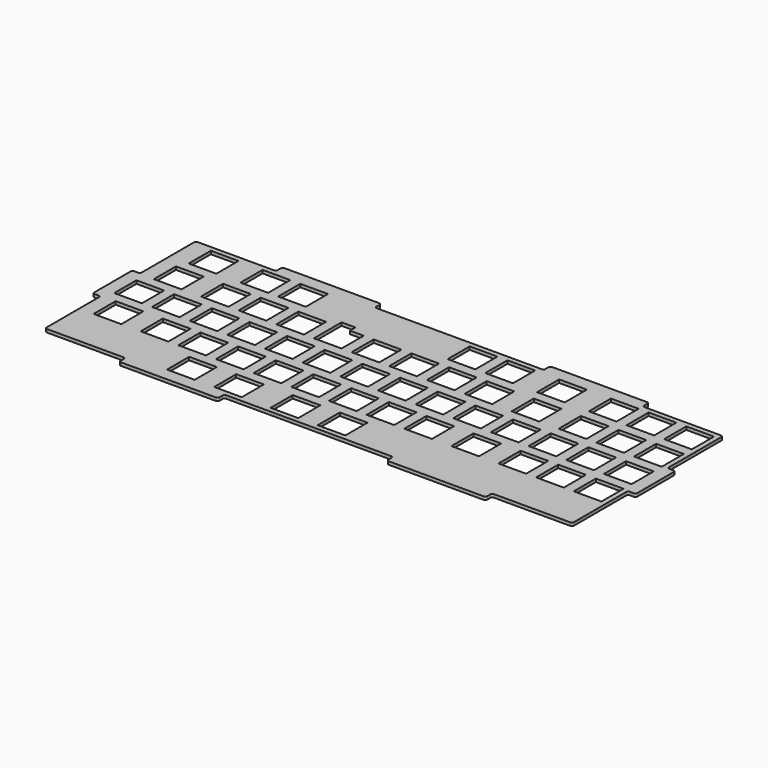
from build123d import *

# Parameters (mm, degrees)
SKETCH002_W     = 14
SKETCH002_H     = 14
PAD001_DEPTH    = 1.6
SKETCH003_W     = 14
SKETCH003_H     = 14
POCKET001_DEPTH = 5
SKETCH004_W     = 14
SKETCH004_H     = 14
POCKET002_DEPTH = 5
SKETCH005_W     = 14
SKETCH005_H     = 14
POCKET003_DEPTH = 5
SKETCH006_W     = 14
SKETCH006_H     = 14
POCKET004_DEPTH = 5
FILLET_R        = 1
SKETCH040_W     = 7
SKETCH040_H     = 3.5
POCKET021_DEPTH = 5


with BuildPart() as part:
    # Sketch002 → Pad001 (new body)
    with BuildSketch(Plane.XY):
        Polygon((-133.35, 47.625), (-92.725, 47.625), (-92.725, 51.625), (-42.725, 51.625), (-42.725, 47.625), (42.725, 47.625), (42.725, 51.625), (92.725, 51.625), (92.725, 47.625), (133.35, 47.625), (133.35, 12.5), (137.35, 12.5), (137.35, -12.5), (133.35, -12.5), (133.35, -47.625), (92.725, -47.625), (92.725, -51.625), (42.725, -51.625), (42.725, -47.625), (-42.725, -47.625), (-42.725, -51.625), (-92.725, -51.625), (-92.725, -47.625), (-133.35, -47.625), (-133.35, -12.5), (-137.35, -12.5), (-137.35, 12.5), (-133.35, 12.5), align=None)
        with Locations((-71.4375, 38.1)):
            Rectangle(SKETCH002_W, SKETCH002_H, mode=Mode.SUBTRACT)
        with Locations((14.2875, 38.1)):
            Rectangle(SKETCH002_W, SKETCH002_H, mode=Mode.SUBTRACT)
        with Locations((33.3375, 38.1)):
            Rectangle(SKETCH002_W, SKETCH002_H, mode=Mode.SUBTRACT)
        with Locations((-90.4875, 38.1)):
            Rectangle(SKETCH002_W, SKETCH002_H, mode=Mode.SUBTRACT)
        with Locations((-116.68125, 38.1)):
            Rectangle(SKETCH002_W, SKETCH002_H, mode=Mode.SUBTRACT)
        with Locations((59.53125, 38.1)):
            Rectangle(SKETCH002_W, SKETCH002_H, mode=Mode.SUBTRACT)
        with Locations((85.725, 38.1)):
            Rectangle(SKETCH002_W, SKETCH002_H, mode=Mode.SUBTRACT)
        Polygon((97.775, 45.1), (111.775, 45.1), (111.775, 31.1), (97.77505, 31.1), align=None, mode=Mode.SUBTRACT)
        with Locations((123.825, 38.1)):
            Rectangle(SKETCH002_W, SKETCH002_H, mode=Mode.SUBTRACT)
    extrude(amount=-PAD001_DEPTH)

    # Sketch003 (on Face65 of Pad001) → Pocket001 (cut)
    with BuildSketch(Plane.XY):
        with Locations((-119.0625, 19.05)):
            Rectangle(SKETCH003_W, SKETCH003_H)
        with Locations((-95.25, 19.05)):
            Rectangle(SKETCH003_W, SKETCH003_H)
        with Locations((-57.15, 19.05)):
            Rectangle(SKETCH003_W, SKETCH003_H)
        with Locations((85.725, 19.05)):
            Rectangle(SKETCH003_W, SKETCH003_H)
        with Locations((-19.05, 19.05)):
            Rectangle(SKETCH003_W, SKETCH003_H)
        with Locations((38.1, 19.05)):
            Rectangle(SKETCH003_W, SKETCH003_H)
        with Locations((-76.2, 19.05)):
            Rectangle(SKETCH003_W, SKETCH003_H)
        with Locations((-38.1, 19.05)):
            Rectangle(SKETCH003_W, SKETCH003_H)
        with Locations((19.05, 19.05)):
            Rectangle(SKETCH003_W, SKETCH003_H)
        with Locations((104.775, 19.05)):
            Rectangle(SKETCH003_W, SKETCH003_H)
        with Locations((0, 19.05)):
            Rectangle(SKETCH003_W, SKETCH003_H)
        with Locations((61.9125, 19.05)):
            Rectangle(SKETCH003_W, SKETCH003_H)
        with Locations((123.825, 19.05)):
            Rectangle(SKETCH003_W, SKETCH003_H)
    extrude(amount=-POCKET001_DEPTH, mode=Mode.SUBTRACT)

    # Sketch004 (on Face4 of Pocket001) → Pocket002 (cut)
    with BuildSketch(Plane.XY):
        with Locations((-123.825, 0)):
            Rectangle(SKETCH004_W, SKETCH004_H)
        with Locations((-104.775, 0)):
            Rectangle(SKETCH004_W, SKETCH004_H)
        with Locations((-85.725, 0)):
            Rectangle(SKETCH004_W, SKETCH004_H)
        with Locations((-66.675, 0)):
            Rectangle(SKETCH004_W, SKETCH004_H)
        with Locations((-47.625, 0)):
            Rectangle(SKETCH004_W, SKETCH004_H)
        with Locations((-9.525, 0)):
            Rectangle(SKETCH004_W, SKETCH004_H)
        with Locations((9.525, 0)):
            Rectangle(SKETCH004_W, SKETCH004_H)
        with Locations((28.575, 0)):
            Rectangle(SKETCH004_W, SKETCH004_H)
        with Locations((47.625, 0)):
            Rectangle(SKETCH004_W, SKETCH004_H)
        with Locations((123.825, 0)):
            Rectangle(SKETCH004_W, SKETCH004_H)
        with Locations((66.675, 0)):
            Rectangle(SKETCH004_W, SKETCH004_H)
        with Locations((85.725, 0)):
            Rectangle(SKETCH004_W, SKETCH004_H)
        with Locations((104.775, 0)):
            Rectangle(SKETCH004_W, SKETCH004_H)
        with Locations((-28.575, 0)):
            Rectangle(SKETCH004_W, SKETCH004_H)
    extrude(amount=-POCKET002_DEPTH, mode=Mode.SUBTRACT)

    # Sketch005 (on Face4 of Pocket002) → Pocket003 (cut)
    with BuildSketch(Plane.XY):
        with Locations((-119.0625, -19.05)):
            Rectangle(SKETCH005_W, SKETCH005_H)
        with Locations((-95.25, -19.05)):
            Rectangle(SKETCH005_W, SKETCH005_H)
        with Locations((-57.15, -19.05)):
            Rectangle(SKETCH005_W, SKETCH005_H)
        with Locations((85.725, -19.05)):
            Rectangle(SKETCH005_W, SKETCH005_H)
        with Locations((-19.05, -19.05)):
            Rectangle(SKETCH005_W, SKETCH005_H)
        with Locations((38.1, -19.05)):
            Rectangle(SKETCH005_W, SKETCH005_H)
        with Locations((-76.2, -19.05)):
            Rectangle(SKETCH005_W, SKETCH005_H)
        with Locations((-38.1, -19.05)):
            Rectangle(SKETCH005_W, SKETCH005_H)
        with Locations((19.05, -19.05)):
            Rectangle(SKETCH005_W, SKETCH005_H)
        with Locations((123.825, -19.05)):
            Rectangle(SKETCH005_W, SKETCH005_H)
        with Locations((104.775, -19.05)):
            Rectangle(SKETCH005_W, SKETCH005_H)
        with Locations((0, -19.05)):
            Rectangle(SKETCH005_W, SKETCH005_H)
        with Locations((61.9125, -19.05)):
            Rectangle(SKETCH005_W, SKETCH005_H)
    extrude(amount=-POCKET003_DEPTH, mode=Mode.SUBTRACT)

    # Sketch006 (on Face4 of Pocket003) → Pocket004 (cut)
    with BuildSketch(Plane.XY):
        with Locations((-42.8625, -38.1)):
            Rectangle(SKETCH006_W, SKETCH006_H)
        with Locations((-14.2875, -38.1)):
            Rectangle(SKETCH006_W, SKETCH006_H)
        with Locations((9.525, -38.1)):
            Rectangle(SKETCH006_W, SKETCH006_H)
        with Locations((-66.675, -38.1)):
            Rectangle(SKETCH006_W, SKETCH006_H)
    extrude(amount=-POCKET004_DEPTH, mode=Mode.SUBTRACT)

    # Fillet
    fillet_edges = [part.edges().sort_by_distance(p)[0] for p in [
        (-133.35, 47.625, -0.8),
        (-133.35, 12.5, -0.8),
        (-137.35, 12.5, -0.8),
        (-137.35, -12.5, -0.8),
        (137.35, 12.5, -0.8),
        (137.35, -12.5, -0.8),
        (133.35, -47.625, -0.8),
        (92.725, -47.625, -0.8),
        (92.725, -51.625, -0.8),
        (133.35, -12.5, -0.8),
        (-133.35, -47.625, -0.8),
        (-92.725, -47.625, -0.8),
        (-92.725, -51.625, -0.8),
        (-42.725, -51.625, -0.8),
        (42.725, -51.625, -0.8),
        (42.725, -47.625, -0.8),
        (-133.35, -12.5, -0.8),
        (-92.725, 47.625, -0.8),
        (-92.725, 51.625, -0.8),
        (-42.725, 51.625, -0.8),
        (42.725, 51.625, -0.8),
        (92.725, 51.625, -0.8),
        (42.725, 47.625, -0.8),
        (-42.725, 47.625, -0.8),
        (133.35, 47.625, -0.8),
        (92.725, 47.625, -0.8),
        (133.35, 12.5, -0.8),
        (-42.725, -47.625, -0.8),
    ]]
    fillet(fillet_edges, radius=FILLET_R)

    # Sketch040 (on Face2 of Fillet) → Pocket021 (cut)
    with BuildSketch(Plane.XY):
        with Locations((-41.6, 27.8)):
            Rectangle(SKETCH040_W, SKETCH040_H)
    extrude(amount=-POCKET021_DEPTH, mode=Mode.SUBTRACT)


solid = part.part
